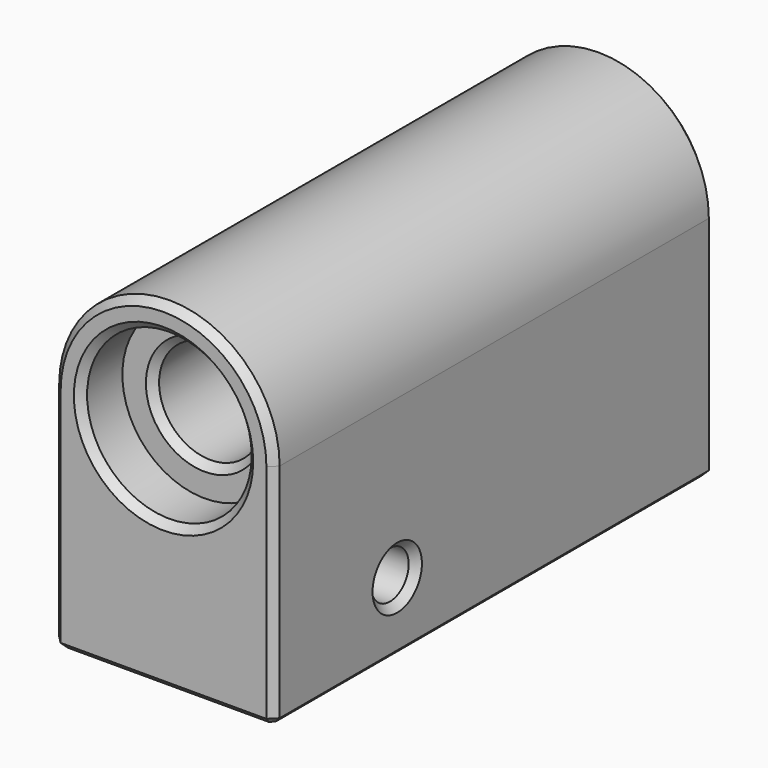
from build123d import *

# Parameters (mm, degrees)
PAD038_DEPTH         = 37.5
SKETCH074_R          = 7
POCKET033_DEPTH      = 50
SKETCH075_R          = 11.2
POCKET034_DEPTH      = 7
CHAMFER033_SIZE      = 1
SKETCH085_W          = 18
SKETCH085_H          = 18
POCKET043_DEPTH      = 19
CHAMFER036_SIZE      = 2
SKETCH086_R          = 3.2
POCKET044_DEPTH      = 6.001
POCKET044_DEPTH_BACK = 24.001
CHAMFER037_SIZE      = 1
CHAMFER038_SIZE      = 1
CHAMFER039_SIZE      = 0.8


with BuildPart() as part:
    # Sketch073 → Pad038 (new body, symmetric)
    with BuildSketch(Plane.XZ):
        with BuildLine():
            ThreePointArc((15, 0), (0, 15), (-15, 0))
            Line((-15, 0), (-15, -31))
            Line((-15, -31), (15, -31))
            Line((15, -31), (15, 0))
        make_face()
    extrude(amount=PAD038_DEPTH, both=True)

    # Sketch074 → Pocket033 (cut, symmetric)
    with BuildSketch(Plane.XZ):
        Circle(SKETCH074_R)
    extrude(amount=POCKET033_DEPTH, both=True, mode=Mode.SUBTRACT)

    # Sketch075 (on Face5 of Pocket033) → Pocket034 (cut)
    with BuildSketch(Plane.XZ.offset(37.5)):
        Circle(SKETCH075_R)
    pocket034 = extrude(amount=-POCKET034_DEPTH, mode=Mode.SUBTRACT)

    # Mirrored002: Pocket034 across XZ
    add(pocket034.mirror(Plane.XZ), mode=Mode.SUBTRACT)

    # Chamfer033
    chamfer033_edges = [part.edges().sort_by_distance(p)[0] for p in [
        (-11.2, 37.5, 0),
        (-7, 30.5, 0),
        (-11.2, -37.5, 0),
        (-7, -30.5, 0),
    ]]
    chamfer(chamfer033_edges, length=CHAMFER033_SIZE)

    # Sketch085 (on Face6 of Chamfer033) → Pocket043 (cut)
    with BuildSketch(Plane(origin=(0, 0, -31), x_dir=(1, 0, 0), z_dir=(0, 0, -1))):
        with Locations((0, 16.5)):
            Rectangle(SKETCH085_W, SKETCH085_H)
    extrude(amount=-POCKET043_DEPTH, mode=Mode.SUBTRACT)

    # Chamfer036
    chamfer036_edges = [part.edges().sort_by_distance(p)[0] for p in [
        (9, -25.5, -21.5),
        (9, -7.5, -21.5),
        (-9, -7.5, -21.5),
        (-9, -25.5, -21.5),
    ]]
    chamfer(chamfer036_edges, length=CHAMFER036_SIZE)

    # Sketch086 (on Face5 of Chamfer036) → Pocket044 (cut, two sides)
    with BuildSketch(Plane(origin=(9, 0, 0), x_dir=(0, 0, -1), z_dir=(-1, 0, 0))) as pocket044_sk:
        with Locations((21.5, 16.5)):
            Circle(SKETCH086_R)
    extrude(amount=-POCKET044_DEPTH, mode=Mode.SUBTRACT)
    extrude(pocket044_sk.sketch, amount=POCKET044_DEPTH_BACK, mode=Mode.SUBTRACT)

    # Chamfer037
    chamfer037_edges = [part.edges().sort_by_distance(p)[0] for p in [
        (15, 37.5, -15.5),
        (15, -37.5, -15.5),
    ]]
    chamfer(chamfer037_edges, length=CHAMFER037_SIZE)

    # Chamfer038
    chamfer038_edges = [part.edges().sort_by_distance(p)[0] for p in [
        (9, -16.5, -18.3),
        (-15, -16.5, -18.3),
        (-9, -16.5, -18.3),
        (15, -16.5, -18.3),
    ]]
    chamfer(chamfer038_edges, length=CHAMFER038_SIZE)

    # Chamfer039
    chamfer039_edges = [part.edges().sort_by_distance(p)[0] for p in [
        (-15, 0, -31),
        (-14.5, 37, -31),
        (-14.5, -37, -31),
        (0, 37.5, -31),
        (0, -37.5, -31),
        (14.5, 37, -31),
        (14.5, -37, -31),
        (15, 0, -31),
        (0, -25.5, -31),
        (8, -24.5, -31),
        (-8, -24.5, -31),
        (9, -16.5, -31),
        (-9, -16.5, -31),
        (8, -8.5, -31),
        (-8, -8.5, -31),
        (0, -7.5, -31),
    ]]
    chamfer(chamfer039_edges, length=CHAMFER039_SIZE)


solid = part.part
